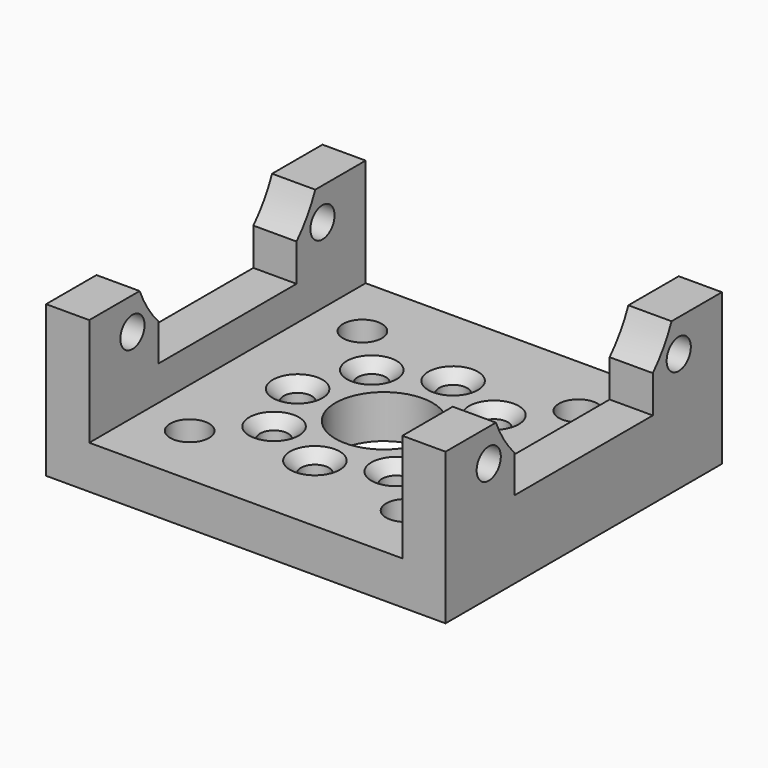
from build123d import *

# Parameters (mm, degrees)
SKETCH_W        = 37
SKETCH_H        = 32
PAD_DEPTH       = 4
SKETCH001_W     = 4
SKETCH001_H     = 32
PAD001_DEPTH    = 10
SKETCH002_R     = 1.4
POCKET_DEPTH    = 100
POCKET003_DEPTH = 100
SKETCH004_R     = 1.3
SKETCH004_R_2   = 4.5
POCKET007_DEPTH = 5
SKETCH008_R     = 1.8
POCKET009_DEPTH = 10
CHAMFER_SIZE    = 1
CHAMFER001_SIZE = 0.2


with BuildPart() as part:
    # Sketch → Pad (new body)
    with BuildSketch(Plane.XY):
        Rectangle(SKETCH_W, SKETCH_H)
    extrude(amount=PAD_DEPTH)

    # Sketch001 (on Face6 of Pad) → Pad001 (join)
    with BuildSketch(Plane.XY.offset(4)):
        with Locations((16.5, 0)):
            Rectangle(SKETCH001_W, SKETCH001_H)
        with Locations((-16.5, 0)):
            Rectangle(SKETCH001_W, SKETCH001_H)
    extrude(amount=PAD001_DEPTH)

    # Sketch002 (on Face13 of Pad001) → Pocket (cut)
    with BuildSketch(Plane.YZ.offset(18.5)):
        with Locations((-11, 11)):
            Circle(SKETCH002_R)
        with Locations((11, 11)):
            Circle(SKETCH002_R)
    extrude(amount=-POCKET_DEPTH, mode=Mode.SUBTRACT)

    # Sketch006 → Pocket003 (cut)
    with BuildSketch(Plane(origin=(-20, 0, 0), x_dir=(0, -1, 0), z_dir=(-1, 0, 0))):
        with BuildLine():
            ThreePointArc((8, 10.650166), (0, 29.2), (-8, 10.650166))
            Line((-8, 10.650166), (-8, 7.2))
            Line((-8, 7.2), (8, 7.2))
            Line((8, 7.2), (8, 10.650166))
        make_face()
    extrude(amount=-POCKET003_DEPTH, mode=Mode.SUBTRACT)

    # Sketch004 → Pocket007 (cut)
    with BuildSketch(Plane.XY.offset(4)):
        with Locations((0, 8)):
            Circle(SKETCH004_R)
        with Locations((8, 0)):
            Circle(SKETCH004_R)
        with Locations((0, -8)):
            Circle(SKETCH004_R)
        with Locations((-8, 0)):
            Circle(SKETCH004_R)
        Circle(SKETCH004_R_2)
        with Locations((5.656854, 5.656854)):
            Circle(SKETCH004_R)
        with Locations((-5.656854, 5.656854)):
            Circle(SKETCH004_R)
        with Locations((-5.656854, -5.656854)):
            Circle(SKETCH004_R)
        with Locations((5.656854, -5.656854)):
            Circle(SKETCH004_R)
    extrude(amount=-POCKET007_DEPTH, mode=Mode.SUBTRACT)

    # Sketch008 → Pocket009 (cut)
    with BuildSketch(Plane(origin=(0, 0, 0), x_dir=(1, 0, 0), z_dir=(0, 0, -1))):
        with Locations((10, 10)):
            Circle(SKETCH008_R)
        with Locations((-10, 10)):
            Circle(SKETCH008_R)
        with Locations((-10, -10)):
            Circle(SKETCH008_R)
        with Locations((10, -10)):
            Circle(SKETCH008_R)
    extrude(amount=-POCKET009_DEPTH, mode=Mode.SUBTRACT)

    # Chamfer
    chamfer_edges = [part.edges().sort_by_distance(p)[0] for p in [
        (-6.956854, -5.656854, 4),
        (-1.3, -8, 4),
        (4.356854, -5.656854, 4),
        (6.7, 0, 4),
        (4.356854, 5.656854, 4),
        (-1.3, 8, 4),
        (-6.956854, 5.656854, 4),
        (-9.3, 0, 4),
    ]]
    chamfer(chamfer_edges, length=CHAMFER_SIZE)

    # Chamfer001
    chamfer001_edges = [part.edges().sort_by_distance(p)[0] for p in [
        (-6.956854, -5.656854, 0),
        (-9.3, 0, 0),
        (-6.956854, 5.656854, 0),
        (-1.3, 8, 0),
        (4.356854, 5.656854, 0),
        (6.7, 0, 0),
        (4.356854, -5.656854, 0),
        (-1.3, -8, 0),
        (-11.8, -10, 0),
        (-11.8, 10, 0),
        (8.2, 10, 0),
        (8.2, -10, 0),
    ]]
    chamfer(chamfer001_edges, length=CHAMFER001_SIZE)


solid = part.part
